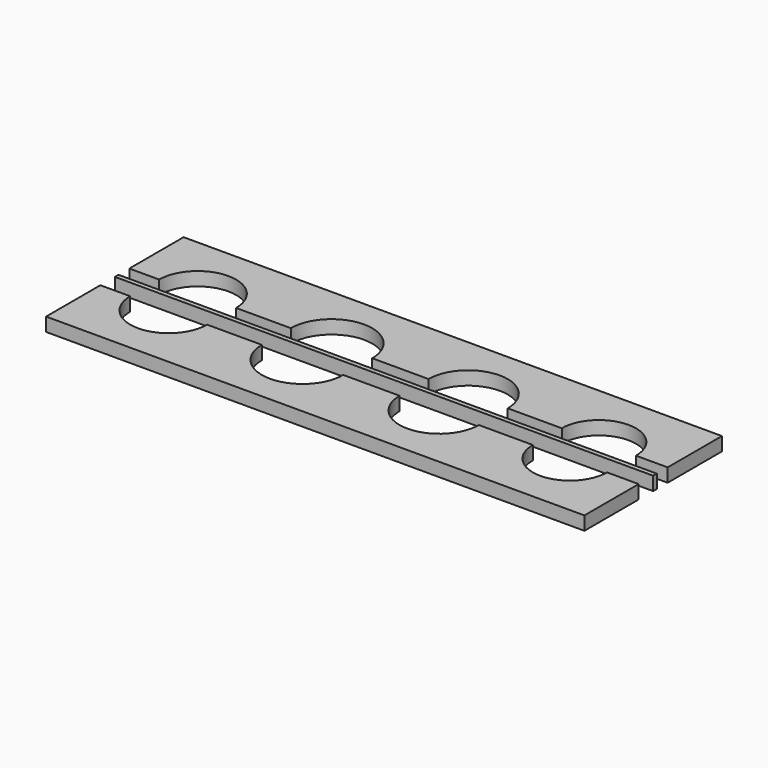
from build123d import *

# Parameters (mm, degrees)
F1_DEPTH = 3


with BuildPart() as f1:
    # F0 (on Top) → F1 (new body)
    with BuildSketch(Plane.XY):
        with BuildLine():
            Line((59.5, 0), (59.5, 15))
            Line((59.5, 15), (-59.5, 15))
            Line((-59.5, 15), (-59.5, 0))
            Line((-59.5, 0), (-57.9, 0))
            Line((-57.9, 0), (-52.9, 0))
            ThreePointArc((-52.9, 0), (-44.4, 8.5), (-35.9, 0))
            Line((-35.9, 0), (-30.9, 0))
            Line((-30.9, 0), (-29.3, 0))
            Line((-29.3, 0), (-23.8, 0))
            ThreePointArc((-23.8, 0), (-14.8, 9), (-5.8, 0))
            Line((-5.8, 0), (-0.3, 0))
            Line((-0.3, 0), (1.3, 0))
            Line((1.3, 0), (6.65, 0))
            ThreePointArc((6.65, 0), (15.4, 8.75), (24.15, 0))
            Line((24.15, 0), (29.5, 0))
            Line((29.5, 0), (31.1, 0))
            Line((31.1, 0), (36.1, 0))
            ThreePointArc((36.1, 0), (44.3, 8.2), (52.5, 0))
            Line((52.5, 0), (57.5, 0))
            Line((57.5, 0), (59.5, 0))
        make_face()
    extrude(amount=F1_DEPTH)


with BuildPart() as f1b:
    # F0 (on Top) → F1, piece 2 (new body)
    with BuildSketch(Plane.XY):
        Polygon((59.5, -4), (59.5, -3), (-57.9, -3), (-59.5, -3), (-59.5, -4), align=None)
    extrude(amount=F1_DEPTH)


with BuildPart() as f2_1:
    # F2: instance of F1
    add(f1.part.mirror(Plane(origin=(0, -4, 1.5), x_dir=(1, 0, 0), z_dir=(0, -1, 0))))


solid = Compound([f1.part, f1b.part, f2_1.part])
